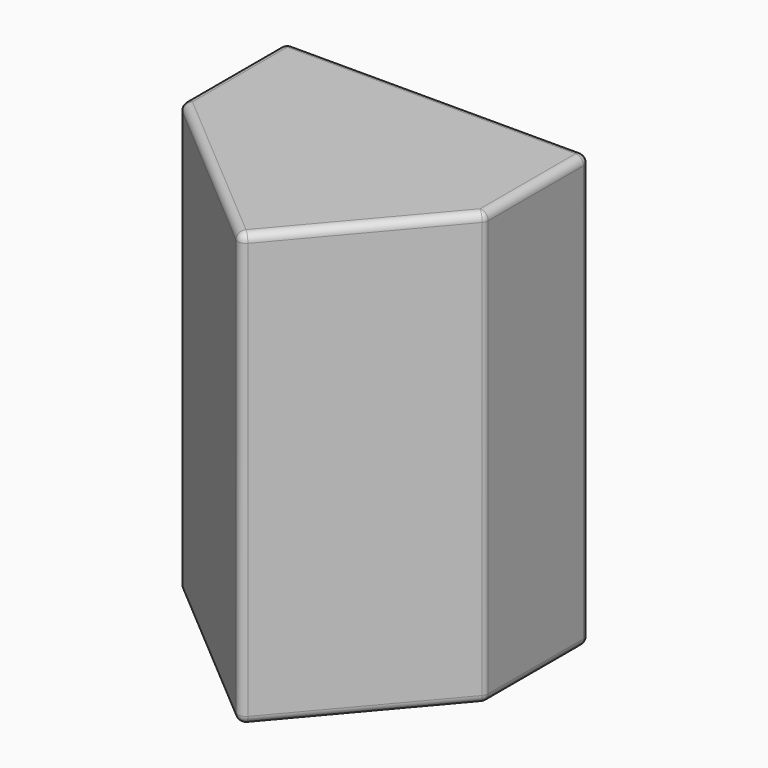
from build123d import *

# Parameters (mm, degrees)
F1_DEPTH = 270
F2_R     = 10


with BuildPart() as f1:
    # F0 (on Top) → F1 (new body, symmetric)
    with BuildSketch(Plane.XY):
        Polygon((159.641693, 0), (-220.358307, 0), (-220.358307, -162.441014), (0, -350), (159.641693, -162.441014), align=None)
    extrude(amount=F1_DEPTH, both=True)

    # F2
    f2_edges = [f1.edges().sort_by_distance(p)[0] for p in [
        (-220.358307, 0, 0),
        (-220.358307, -81.220507, -270),
        (-220.358307, -162.441014, 0),
        (-220.358307, -81.220507, 270),
        (-110.179154, -256.220507, -270),
        (0, -350, 0),
        (-110.179154, -256.220507, 270),
        (79.820846, -256.220507, -270),
        (159.641693, -162.441014, 0),
        (79.820846, -256.220507, 270),
        (159.641693, -81.220507, -270),
        (159.641693, 0, 0),
        (159.641693, -81.220507, 270),
        (-30.358307, 0, -270),
        (-30.358307, 0, 270),
    ]]
    fillet(f2_edges, radius=F2_R)


solid = f1.part
